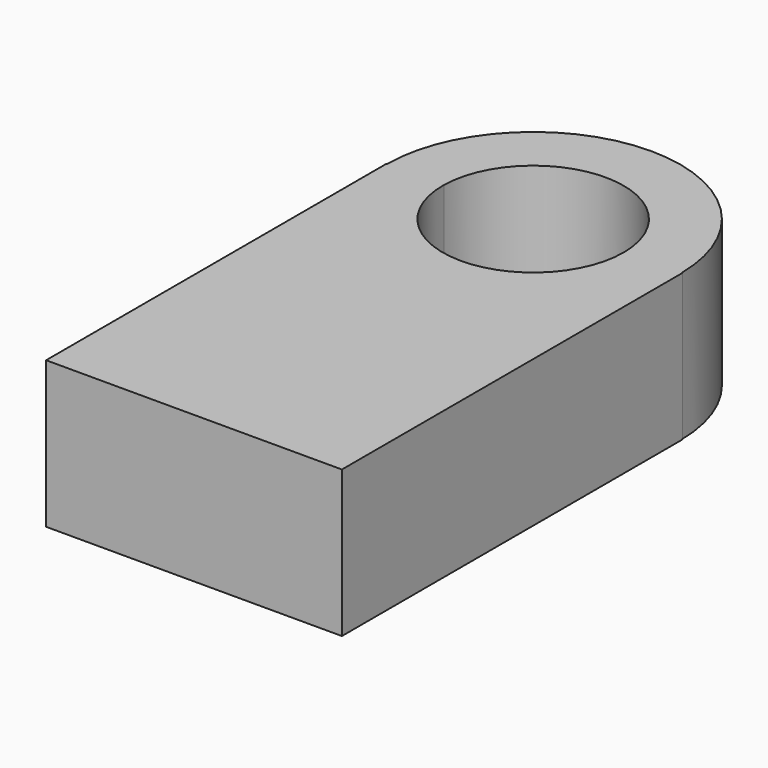
from build123d import *

# Parameters (mm, degrees)
F2_DEPTH = 25.4


with BuildPart() as f2:
    # F1 (on face) → F2 (new body)
    with BuildSketch(Plane.XY):
        with BuildLine():
            Line((-15.6648528991, 36.8518978357), (-25.5256450103, 36.8518978357))
            Line((-25.5256450103, 36.8518978357), (-25.6189666688, 36.8518978357))
            Line((-25.6189666688, 36.8518978357), (-25.6189666688, -36.8518978357))
            Line((-25.6189666688, -36.8518978357), (25.6189666688, -36.8518978357))
            Line((25.6189666688, -36.8518978357), (25.6189666688, 36.8518978357))
            Line((25.6189666688, 36.8518978357), (25.5256450103, 36.8518978357))
            Line((25.5256450103, 36.8518978357), (15.6648528991, 36.8518978357))
            ThreePointArc((15.6648528991, 36.8518978357), (15.6665087683, 36.7203959962), (15.6670607377, 36.5888848901))
            ThreePointArc((15.6670607377, 36.5888848901), (-0.1315111061, 20.9223761218), (-15.6648528991, 36.8518978357))
        make_face()
        with BuildLine():
            ThreePointArc((25.5256450103, 36.8518978357), (0, 62.1158848901), (-25.5256450103, 36.8518978357))
            Line((-25.5256450103, 36.8518978357), (-15.6648528991, 36.8518978357))
            ThreePointArc((-15.6648528991, 36.8518978357), (0, 52.2559456278), (15.6648528991, 36.8518978357))
            Line((15.6648528991, 36.8518978357), (25.5256450103, 36.8518978357))
        make_face()
    extrude(amount=F2_DEPTH)


solid = f2.part
